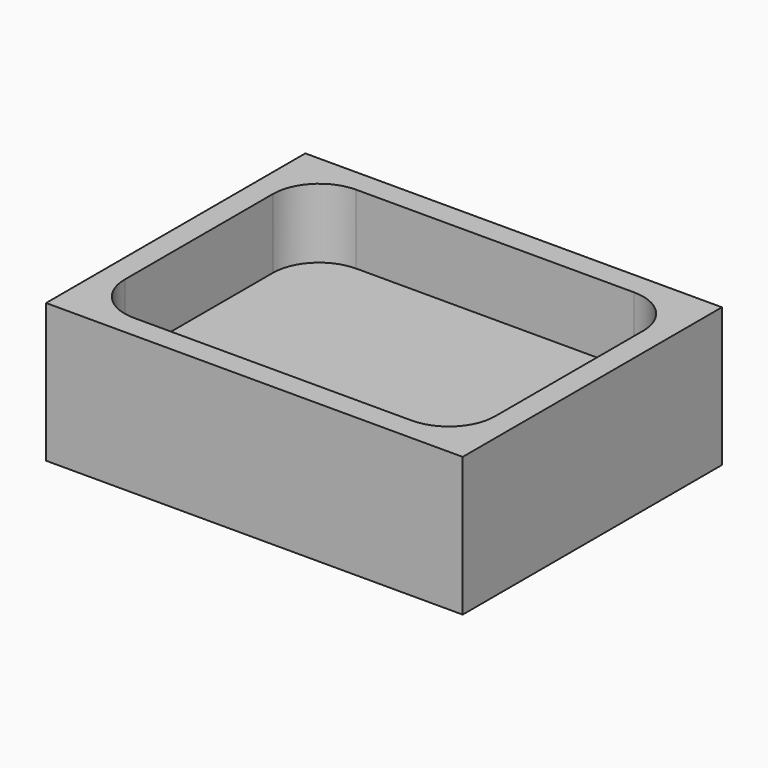
from build123d import *

# Parameters (mm, degrees)
F0_W     = 45
F0_H     = 35
F1_DEPTH = 7.5
F2_W     = 40
F2_H     = 30
F3_DEPTH = 7.5
F4_W     = 40
F4_H     = 30
F5_DEPTH = 5
F6_R     = 5


with BuildPart() as f1:
    # F0 (on Top) → F1 (new body, symmetric)
    with BuildSketch(Plane.XY):
        Rectangle(F0_W, F0_H)
    extrude(amount=F1_DEPTH, both=True)

    # F2 (on Top) → F3 (cut)
    with BuildSketch(Plane.XY):
        Rectangle(F2_W, F2_H)
    extrude(amount=F3_DEPTH, mode=Mode.SUBTRACT)

    # F4 (on Top) → F5 (join)
    with BuildSketch(Plane.XY):
        Rectangle(F4_W, F4_H)
    extrude(amount=-F5_DEPTH)

    # F6
    f6_edges = [f1.edges().sort_by_distance(p)[0] for p in [
        (20, 15, 3.75),
        (-20, 15, 3.75),
        (-20, -15, 3.75),
        (20, -15, 3.75),
    ]]
    fillet(f6_edges, radius=F6_R)


solid = f1.part
